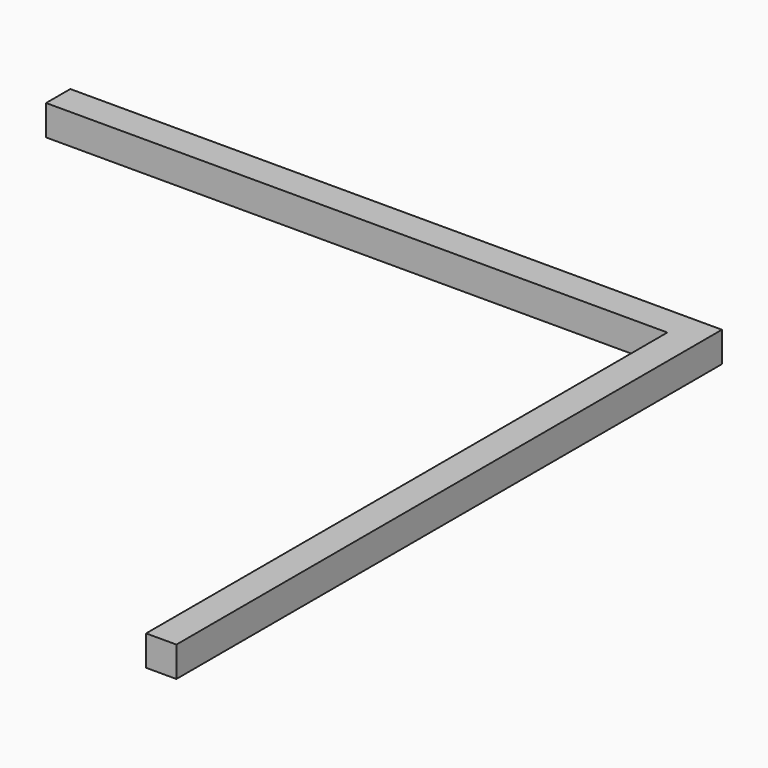
from build123d import *

# Parameters (mm, degrees)
F0_W     = 20
F0_H     = 20
F1_DEPTH = 450
F2_W     = 20
F2_H     = 20
F3_DEPTH = 410


with BuildPart() as f1:
    # F0 (on Front) → F1 (new body)
    with BuildSketch(Plane.XZ):
        with Locations((10, 10)):
            Rectangle(F0_W, F0_H)
    extrude(amount=F1_DEPTH)

    # F2 (on Right) → F3 (join)
    with BuildSketch(Plane.YZ):
        with Locations((-10, 10)):
            Rectangle(F2_W, F2_H)
    extrude(amount=-F3_DEPTH)


solid = f1.part
